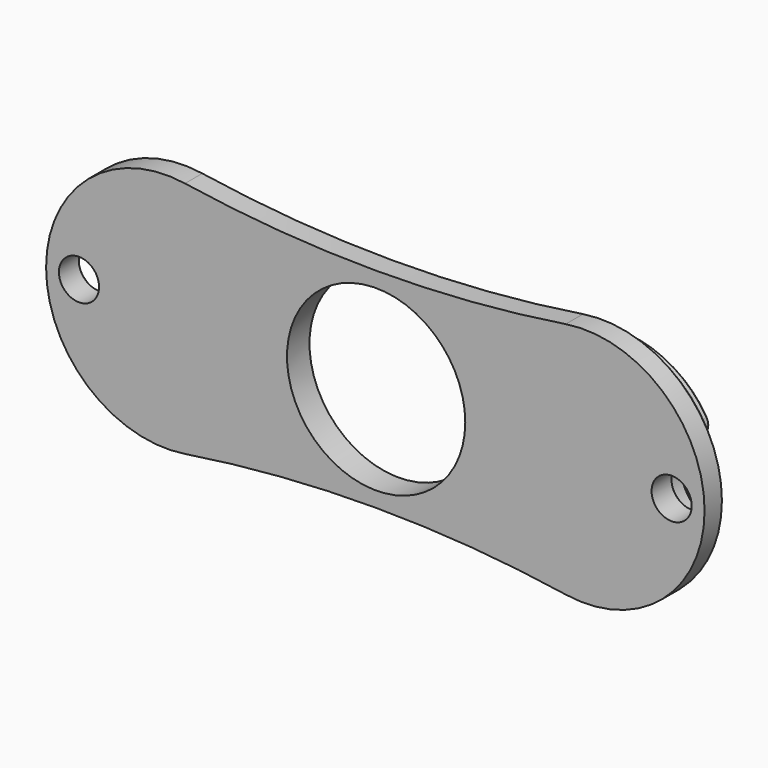
from build123d import *

# Parameters (mm, degrees)
F0_R      = 11.1
F1_DEPTH  = 7
F2_SIZE   = 0.8
F3_R      = 12.5
F4_DEPTH  = 3
F5_R      = 12.5
F6_DEPTH  = 3
F8_R      = 22.5
F9_DEPTH  = 3
F10_R     = 22.5
F11_DEPTH = 3
F12_R     = 5
F13_DEPTH = 3
F14_R     = 5
F15_DEPTH = 3
F16_R     = 5
F17_DEPTH = 3
F18_R     = 5
F19_DEPTH = 3
F20_R     = 1.5
F21_R     = 2.5
F22_DEPTH = 25
F23_R     = 2.5
F24_DEPTH = 25
F25_SIZE  = 0.4
F26_SIZE  = 0.8
F27_W     = 103.2572649419
F27_H     = 49.3412911892
F28_DEPTH = 6.5


with BuildPart() as f1:
    # F0 (on Front) → F1 (new body)
    with BuildSketch(Plane.XZ):
        with BuildLine():
            ThreePointArc((21.7678643686, 14.8235294118), (-1.9380179843, 13), (-25.6439003372, 14.8235294118))
            ThreePointArc((-25.6439003372, 14.8235294118), (-42.9380179843, 0), (-25.6439003372, -14.8235294118))
            ThreePointArc((-25.6439003372, -14.8235294118), (-1.9380179843, -13), (21.7678643686, -14.8235294118))
            ThreePointArc((21.7678643686, -14.8235294118), (39.0619820157, 0), (21.7678643686, 14.8235294118))
        make_face()
        with Locations((-1.8380179843, 0)):
            Circle(F0_R, mode=Mode.SUBTRACT)
    extrude(amount=F1_DEPTH)

    # F2
    f2_edges = [f1.edges().sort_by_distance(p)[0] for p in [
        (-42.938018, -7, 0),
        (-1.938018, -7, -13),
        (-1.938018, 0, -13),
    ]]
    chamfer(f2_edges, length=F2_SIZE)

    # F3 (on face) → F4 (join)
    with BuildSketch(Plane.XZ.offset(7)):
        with Locations((-27.9380179843, 0)):
            Circle(F3_R)
        with Locations((24.0619820157, 0)):
            Circle(F3_R)
    extrude(amount=F4_DEPTH)

    # F5 (on face) → F6 (join)
    with BuildSketch(Plane(origin=(0, 0, 0), x_dir=(-1, 0, 0), z_dir=(0, 1, 0))):
        with Locations((-24.0619820157, 0)):
            Circle(F5_R)
        with Locations((27.9380179843, 0)):
            Circle(F5_R)
    extrude(amount=F6_DEPTH)

    # F8 (on face) → F9 (cut)
    with BuildSketch(Plane.XZ.offset(10)):
        with Locations((-1.8380179843, 0)):
            Circle(F8_R)
    extrude(amount=-F9_DEPTH, mode=Mode.SUBTRACT)

    # F10 (on face) → F11 (cut)
    with BuildSketch(Plane(origin=(0, 3, 0), x_dir=(-1, 0, 0), z_dir=(0, 1, 0))):
        with Locations((1.8380179843, 0)):
            Circle(F10_R)
    extrude(amount=-F11_DEPTH, mode=Mode.SUBTRACT)

    # F12 (on face) → F13 (cut)
    with BuildSketch(Plane(origin=(0, 3, 0), x_dir=(-1, 0, 0), z_dir=(0, 1, 0))):
        with Locations((-36.5619820157, 0)):
            Circle(F12_R)
    extrude(amount=-F13_DEPTH, mode=Mode.SUBTRACT)

    # F14 (on face) → F15 (cut)
    with BuildSketch(Plane(origin=(0, 3, 0), x_dir=(-1, 0, 0), z_dir=(0, 1, 0))):
        with Locations((40.4380179843, 0)):
            Circle(F14_R)
    extrude(amount=-F15_DEPTH, mode=Mode.SUBTRACT)

    # F16 (on face) → F17 (cut)
    with BuildSketch(Plane.XZ.offset(10)):
        with Locations((-40.4380179843, 0)):
            Circle(F16_R)
    extrude(amount=-F17_DEPTH, mode=Mode.SUBTRACT)

    # F18 (on face) → F19 (cut)
    with BuildSketch(Plane.XZ.offset(10)):
        with Locations((36.5617908537, 0)):
            Circle(F18_R)
    extrude(amount=-F19_DEPTH, mode=Mode.SUBTRACT)

    # F20
    f20_edges = [f1.edges().sort_by_distance(p)[0] for p in [
        (-39.438018, -8.5, 4.898979),
        (-39.438018, -8.5, -4.898979),
        (-21.592999, -8.5, -10.769899),
        (-21.592999, -8.5, 10.769899),
        (17.868739, -8.5, 10.857888),
        (17.868739, -8.5, -10.857888),
        (35.561967, -8.5, -4.899015),
        (35.561967, -8.5, 4.899015),
        (-21.592999, 1.5, -10.769899),
        (-21.592999, 1.5, 10.769899),
        (-39.438018, 1.5, 4.898979),
        (-39.438018, 1.5, -4.898979),
        (17.868739, 1.5, -10.857888),
        (17.868739, 1.5, 10.857888),
        (35.561982, 1.5, -4.898979),
        (35.561982, 1.5, 4.898979),
    ]]
    fillet(f20_edges, radius=F20_R)

    # F21 (on face) → F22 (cut)
    with BuildSketch(Plane.XZ.offset(7)):
        with Locations((-38.8380179843, 0)):
            Circle(F21_R)
    extrude(amount=-F22_DEPTH, mode=Mode.SUBTRACT)

    # F23 (on face) → F24 (cut)
    with BuildSketch(Plane.XZ.offset(7)):
        with Locations((34.9617908537, 0)):
            Circle(F23_R)
    extrude(amount=-F24_DEPTH, mode=Mode.SUBTRACT)

    # F25
    f25_edges = [f1.edges().sort_by_distance(p)[0] for p in [
        (-41.338018, -7, 0),
        (32.461791, -7, 0),
        (32.461791, 0, 0),
        (-41.338018, 0, 0),
    ]]
    chamfer(f25_edges, length=F25_SIZE)

    # F26
    f26_edges = [f1.edges().sort_by_distance(p)[0] for p in [
        (27.97166, -10, 11.872844),
        (18.498441, -10, 10.725925),
        (34.910055, -10, 5.322137),
        (20.661982, -10, 0),
        (31.561791, -10, 0),
        (18.498441, -10, -10.725925),
        (34.910055, -10, -5.322137),
        (27.97166, -10, -11.872844),
        (-24.338018, -10, 0),
        (-22.203581, -10, 10.646558),
        (-22.203581, -10, -10.646558),
        (-31.749718, -10, 11.904661),
        (-31.749718, -10, -11.904661),
        (-38.786142, -10, 5.322071),
        (-38.786142, -10, -5.322071),
        (-35.438018, -10, 0),
        (-24.338018, 3, 0),
        (-22.203581, 3, -10.646558),
        (-22.203581, 3, 10.646558),
        (-31.749718, 3, -11.904661),
        (-31.749718, 3, 11.904661),
        (-38.786142, 3, -5.322071),
        (-38.786142, 3, 5.322071),
        (-35.438018, 3, 0),
        (20.661982, 3, 0),
        (18.498441, 3, 10.725925),
        (18.498441, 3, -10.725925),
        (27.971709, 3, 11.872828),
        (27.971709, 3, -11.872828),
        (34.910106, 3, 5.322071),
        (34.910106, 3, -5.322071),
        (31.561982, 3, 0),
    ]]
    chamfer(f26_edges, length=F26_SIZE)

    # F27 (on face) → F28 (cut)
    with BuildSketch(Plane.XZ.offset(10)):
        with Locations((-3.2676365227, 0)):
            Rectangle(F27_W, F27_H)
    extrude(amount=-F28_DEPTH, mode=Mode.SUBTRACT)


solid = f1.part
